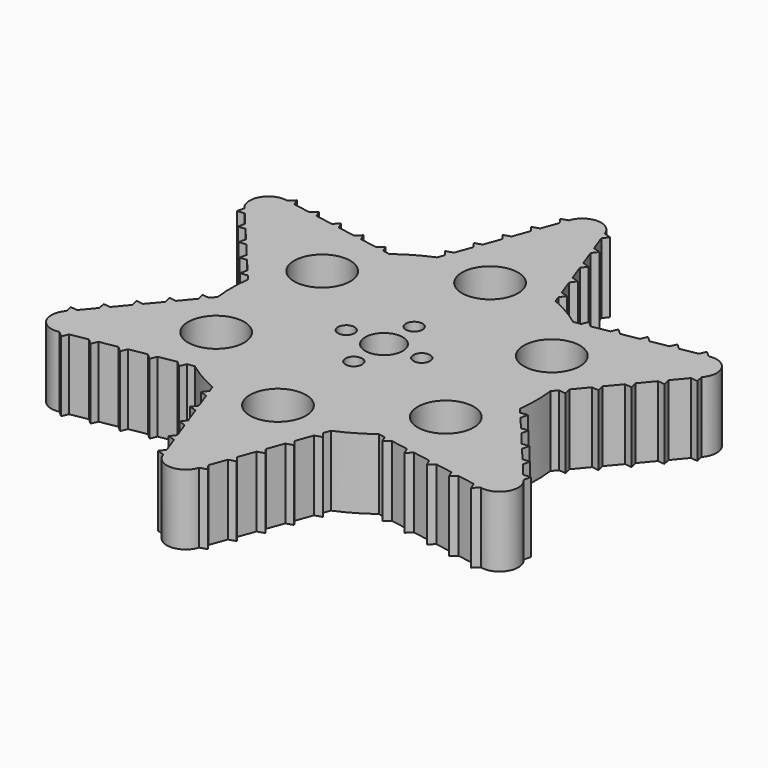
from build123d import *

# Parameters (mm, degrees)
F0_R     = 5.983363
F0_R_2   = 1.775
F0_R_3   = 4
F1_DEPTH = 15


with BuildPart() as f1:
    # F0 (on Top) → F1 (new body)
    with BuildSketch(Plane.XY):
        with BuildLine():
            Line((-12.114003, 31.346652), (-12.624421, 29.947855))
            ThreePointArc((-12.624421, 29.947855), (-16.25, 28.145826), (-19.623392, 25.906997))
            Line((-19.623392, 25.906997), (-21.089996, 26.16436))
            Line((-21.089996, 26.16436), (-21.683982, 27.552576))
            Line((-21.683982, 27.552576), (-22.854341, 26.473972))
            Line((-22.854341, 26.473972), (-26.605512, 27.132238))
            Line((-26.605512, 27.132238), (-27.200484, 28.522757))
            Line((-27.200484, 28.522757), (-28.372784, 27.442364))
            Line((-28.372784, 27.442364), (-32.121029, 28.100116))
            Line((-32.121029, 28.100116), (-32.716985, 29.492937))
            Line((-32.716985, 29.492937), (-33.891227, 28.410755))
            Line((-33.891227, 28.410755), (-37.636546, 29.067994))
            Line((-37.636546, 29.067994), (-38.233487, 30.463118))
            Line((-38.233487, 30.463118), (-39.40967, 29.379147))
            Line((-39.40967, 29.379147), (-43.152062, 30.035872))
            Line((-43.152062, 30.035872), (-43.749989, 31.433298))
            Line((-43.749989, 31.433298), (-44.928113, 30.347538))
            ThreePointArc((-44.928113, 30.347538), (-49.267144, 28.444399), (-48.745796, 23.735118))
            Line((-48.745796, 23.735118), (-49.097029, 22.171953))
            Line((-49.097029, 22.171953), (-47.58786, 22.352846))
            Line((-47.58786, 22.352846), (-45.147923, 19.440202))
            Line((-45.147923, 19.440202), (-45.498577, 17.879612))
            Line((-45.498577, 17.879612), (-43.991894, 18.060208))
            Line((-43.991894, 18.060208), (-41.550049, 15.145286))
            Line((-41.550049, 15.145286), (-41.900125, 13.587272))
            Line((-41.900125, 13.587272), (-40.395929, 13.767569))
            Line((-40.395929, 13.767569), (-37.952176, 10.85037))
            Line((-37.952176, 10.85037), (-38.301673, 9.294931))
            Line((-38.301673, 9.294931), (-36.799964, 9.47493))
            Line((-36.799964, 9.47493), (-34.354303, 6.555454))
            Line((-34.354303, 6.555454), (-34.703222, 5.002591))
            Line((-34.703222, 5.002591), (-33.203998, 5.182292))
            Line((-33.203998, 5.182292), (-32.247813, 4.040858))
            ThreePointArc((-32.247813, 4.040858), (-32.5, 0), (-32.247813, -4.040858))
            Line((-32.247813, -4.040858), (-33.203998, -5.182292))
            Line((-33.203998, -5.182292), (-34.703222, -5.002591))
            Line((-34.703222, -5.002591), (-34.354303, -6.555454))
            Line((-34.354303, -6.555454), (-36.799964, -9.47493))
            Line((-36.799964, -9.47493), (-38.301673, -9.294931))
            Line((-38.301673, -9.294931), (-37.952176, -10.85037))
            Line((-37.952176, -10.85037), (-40.395929, -13.767569))
            Line((-40.395929, -13.767569), (-41.900125, -13.587272))
            Line((-41.900125, -13.587272), (-41.550049, -15.145286))
            Line((-41.550049, -15.145286), (-43.991894, -18.060208))
            Line((-43.991894, -18.060208), (-45.498577, -17.879612))
            Line((-45.498577, -17.879612), (-45.147923, -19.440202))
            Line((-45.147923, -19.440202), (-47.58786, -22.352846))
            Line((-47.58786, -22.352846), (-49.097029, -22.171953))
            Line((-49.097029, -22.171953), (-48.745796, -23.735118))
            ThreePointArc((-48.745796, -23.735118), (-49.267144, -28.444399), (-44.928113, -30.347538))
            Line((-44.928113, -30.347538), (-43.749989, -31.433298))
            Line((-43.749989, -31.433298), (-43.152062, -30.035872))
            Line((-43.152062, -30.035872), (-39.40967, -29.379147))
            Line((-39.40967, -29.379147), (-38.233487, -30.463118))
            Line((-38.233487, -30.463118), (-37.636546, -29.067994))
            Line((-37.636546, -29.067994), (-33.891227, -28.410755))
            Line((-33.891227, -28.410755), (-32.716985, -29.492937))
            Line((-32.716985, -29.492937), (-32.121029, -28.100116))
            Line((-32.121029, -28.100116), (-28.372784, -27.442364))
            Line((-28.372784, -27.442364), (-27.200484, -28.522757))
            Line((-27.200484, -28.522757), (-26.605512, -27.132238))
            Line((-26.605512, -27.132238), (-22.854341, -26.473972))
            Line((-22.854341, -26.473972), (-21.683982, -27.552576))
            Line((-21.683982, -27.552576), (-21.089996, -26.16436))
            Line((-21.089996, -26.16436), (-19.623392, -25.906997))
            ThreePointArc((-19.623392, -25.906997), (-16.25, -28.145826), (-12.624421, -29.947855))
            Line((-12.624421, -29.947855), (-12.114003, -31.346652))
            Line((-12.114003, -31.346652), (-13.01924, -32.555167))
            Line((-13.01924, -32.555167), (-11.499962, -33.029426))
            Line((-11.499962, -33.029426), (-10.194451, -36.607169))
            Line((-10.194451, -36.607169), (-11.10119, -37.817688))
            Line((-11.10119, -37.817688), (-9.579392, -38.292734))
            Line((-9.579392, -38.292734), (-8.2749, -41.867685))
            Line((-8.2749, -41.867685), (-9.18314, -43.080209))
            Line((-9.18314, -43.080209), (-7.658822, -43.556041))
            Line((-7.658822, -43.556041), (-6.355349, -47.128202))
            Line((-6.355349, -47.128202), (-7.26509, -48.34273))
            Line((-7.26509, -48.34273), (-5.738253, -48.819349))
            Line((-5.738253, -48.819349), (-4.435797, -52.388718))
            Line((-4.435797, -52.388718), (-5.34704, -53.605251))
            Line((-5.34704, -53.605251), (-3.817683, -54.082656))
            ThreePointArc((-3.817683, -54.082656), (0, -56.888798), (3.817683, -54.082656))
            Line((3.817683, -54.082656), (5.34704, -53.605251))
            Line((5.34704, -53.605251), (4.435797, -52.388718))
            Line((4.435797, -52.388718), (5.738253, -48.819349))
            Line((5.738253, -48.819349), (7.26509, -48.34273))
            Line((7.26509, -48.34273), (6.355349, -47.128202))
            Line((6.355349, -47.128202), (7.658822, -43.556041))
            Line((7.658822, -43.556041), (9.18314, -43.080209))
            Line((9.18314, -43.080209), (8.2749, -41.867685))
            Line((8.2749, -41.867685), (9.579392, -38.292734))
            Line((9.579392, -38.292734), (11.10119, -37.817688))
            Line((11.10119, -37.817688), (10.194451, -36.607169))
            Line((10.194451, -36.607169), (11.499962, -33.029426))
            Line((11.499962, -33.029426), (13.01924, -32.555167))
            Line((13.01924, -32.555167), (12.114003, -31.346652))
            Line((12.114003, -31.346652), (12.624421, -29.947855))
            ThreePointArc((12.624421, -29.947855), (16.25, -28.145826), (19.623392, -25.906997))
            Line((19.623392, -25.906997), (21.089996, -26.16436))
            Line((21.089996, -26.16436), (21.683982, -27.552576))
            Line((21.683982, -27.552576), (22.854341, -26.473972))
            Line((22.854341, -26.473972), (26.605512, -27.132238))
            Line((26.605512, -27.132238), (27.200484, -28.522757))
            Line((27.200484, -28.522757), (28.372784, -27.442364))
            Line((28.372784, -27.442364), (32.121029, -28.100116))
            Line((32.121029, -28.100116), (32.716985, -29.492937))
            Line((32.716985, -29.492937), (33.891227, -28.410755))
            Line((33.891227, -28.410755), (37.636546, -29.067994))
            Line((37.636546, -29.067994), (38.233487, -30.463118))
            Line((38.233487, -30.463118), (39.40967, -29.379147))
            Line((39.40967, -29.379147), (43.152062, -30.035872))
            Line((43.152062, -30.035872), (43.749989, -31.433298))
            Line((43.749989, -31.433298), (44.928113, -30.347538))
            ThreePointArc((44.928113, -30.347538), (49.267144, -28.444399), (48.745796, -23.735118))
            Line((48.745796, -23.735118), (49.097029, -22.171953))
            Line((49.097029, -22.171953), (47.58786, -22.352846))
            Line((47.58786, -22.352846), (45.147923, -19.440202))
            Line((45.147923, -19.440202), (45.498577, -17.879612))
            Line((45.498577, -17.879612), (43.991894, -18.060208))
            Line((43.991894, -18.060208), (41.550049, -15.145286))
            Line((41.550049, -15.145286), (41.900125, -13.587272))
            Line((41.900125, -13.587272), (40.395929, -13.767569))
            Line((40.395929, -13.767569), (37.952176, -10.85037))
            Line((37.952176, -10.85037), (38.301673, -9.294931))
            Line((38.301673, -9.294931), (36.799964, -9.47493))
            Line((36.799964, -9.47493), (34.354303, -6.555454))
            Line((34.354303, -6.555454), (34.703222, -5.002591))
            Line((34.703222, -5.002591), (33.203998, -5.182292))
            Line((33.203998, -5.182292), (32.247813, -4.040858))
            ThreePointArc((32.247813, -4.040858), (32.5, 0), (32.247813, 4.040858))
            Line((32.247813, 4.040858), (33.203998, 5.182292))
            Line((33.203998, 5.182292), (34.703222, 5.002591))
            Line((34.703222, 5.002591), (34.354303, 6.555454))
            Line((34.354303, 6.555454), (36.799964, 9.47493))
            Line((36.799964, 9.47493), (38.301673, 9.294931))
            Line((38.301673, 9.294931), (37.952176, 10.85037))
            Line((37.952176, 10.85037), (40.395929, 13.767569))
            Line((40.395929, 13.767569), (41.900125, 13.587272))
            Line((41.900125, 13.587272), (41.550049, 15.145286))
            Line((41.550049, 15.145286), (43.991894, 18.060208))
            Line((43.991894, 18.060208), (45.498577, 17.879612))
            Line((45.498577, 17.879612), (45.147923, 19.440202))
            Line((45.147923, 19.440202), (47.58786, 22.352846))
            Line((47.58786, 22.352846), (49.097029, 22.171953))
            Line((49.097029, 22.171953), (48.745796, 23.735118))
            ThreePointArc((48.745796, 23.735118), (49.267144, 28.444399), (44.928113, 30.347538))
            Line((44.928113, 30.347538), (43.749989, 31.433298))
            Line((43.749989, 31.433298), (43.152062, 30.035872))
            Line((43.152062, 30.035872), (39.40967, 29.379147))
            Line((39.40967, 29.379147), (38.233487, 30.463118))
            Line((38.233487, 30.463118), (37.636546, 29.067994))
            Line((37.636546, 29.067994), (33.891227, 28.410755))
            Line((33.891227, 28.410755), (32.716985, 29.492937))
            Line((32.716985, 29.492937), (32.121029, 28.100116))
            Line((32.121029, 28.100116), (28.372784, 27.442364))
            Line((28.372784, 27.442364), (27.200484, 28.522757))
            Line((27.200484, 28.522757), (26.605512, 27.132238))
            Line((26.605512, 27.132238), (22.854341, 26.473972))
            Line((22.854341, 26.473972), (21.683982, 27.552576))
            Line((21.683982, 27.552576), (21.089996, 26.16436))
            Line((21.089996, 26.16436), (19.623392, 25.906997))
            ThreePointArc((19.623392, 25.906997), (16.25, 28.145826), (12.624421, 29.947855))
            Line((12.624421, 29.947855), (12.114003, 31.346652))
            Line((12.114003, 31.346652), (13.01924, 32.555167))
            Line((13.01924, 32.555167), (11.499962, 33.029426))
            Line((11.499962, 33.029426), (10.194451, 36.607169))
            Line((10.194451, 36.607169), (11.10119, 37.817688))
            Line((11.10119, 37.817688), (9.579392, 38.292734))
            Line((9.579392, 38.292734), (8.2749, 41.867685))
            Line((8.2749, 41.867685), (9.18314, 43.080209))
            Line((9.18314, 43.080209), (7.658822, 43.556041))
            Line((7.658822, 43.556041), (6.355349, 47.128202))
            Line((6.355349, 47.128202), (7.26509, 48.34273))
            Line((7.26509, 48.34273), (5.738253, 48.819349))
            Line((5.738253, 48.819349), (4.435797, 52.388718))
            Line((4.435797, 52.388718), (5.34704, 53.605251))
            Line((5.34704, 53.605251), (3.817683, 54.082656))
            ThreePointArc((3.817683, 54.082656), (0, 56.888798), (-3.817683, 54.082656))
            Line((-3.817683, 54.082656), (-5.34704, 53.605251))
            Line((-5.34704, 53.605251), (-4.435797, 52.388718))
            Line((-4.435797, 52.388718), (-5.738253, 48.819349))
            Line((-5.738253, 48.819349), (-7.26509, 48.34273))
            Line((-7.26509, 48.34273), (-6.355349, 47.128202))
            Line((-6.355349, 47.128202), (-7.658822, 43.556041))
            Line((-7.658822, 43.556041), (-9.18314, 43.080209))
            Line((-9.18314, 43.080209), (-8.2749, 41.867685))
            Line((-8.2749, 41.867685), (-9.579392, 38.292734))
            Line((-9.579392, 38.292734), (-11.10119, 37.817688))
            Line((-11.10119, 37.817688), (-10.194451, 36.607169))
            Line((-10.194451, 36.607169), (-11.499962, 33.029426))
            Line((-11.499962, 33.029426), (-13.01924, 32.555167))
            Line((-13.01924, 32.555167), (-12.114003, 31.346652))
        make_face()
        with Locations((-24.488235, -14.138289)):
            Circle(F0_R, mode=Mode.SUBTRACT)
        with Locations((0, -28.276578)):
            Circle(F0_R, mode=Mode.SUBTRACT)
        with Locations((0, -8.05)):
            Circle(F0_R_2, mode=Mode.SUBTRACT)
        with Locations((24.488235, -14.138289)):
            Circle(F0_R, mode=Mode.SUBTRACT)
        with Locations((-24.488235, 14.138289)):
            Circle(F0_R, mode=Mode.SUBTRACT)
        with Locations((-8.05, 0)):
            Circle(F0_R_2, mode=Mode.SUBTRACT)
        Circle(F0_R_3, mode=Mode.SUBTRACT)
        with Locations((8.05, 0)):
            Circle(F0_R_2, mode=Mode.SUBTRACT)
        with Locations((0, 8.05)):
            Circle(F0_R_2, mode=Mode.SUBTRACT)
        with Locations((24.488235, 14.138289)):
            Circle(F0_R, mode=Mode.SUBTRACT)
        with Locations((0, 28.276578)):
            Circle(F0_R, mode=Mode.SUBTRACT)
    extrude(amount=F1_DEPTH)


solid = f1.part
